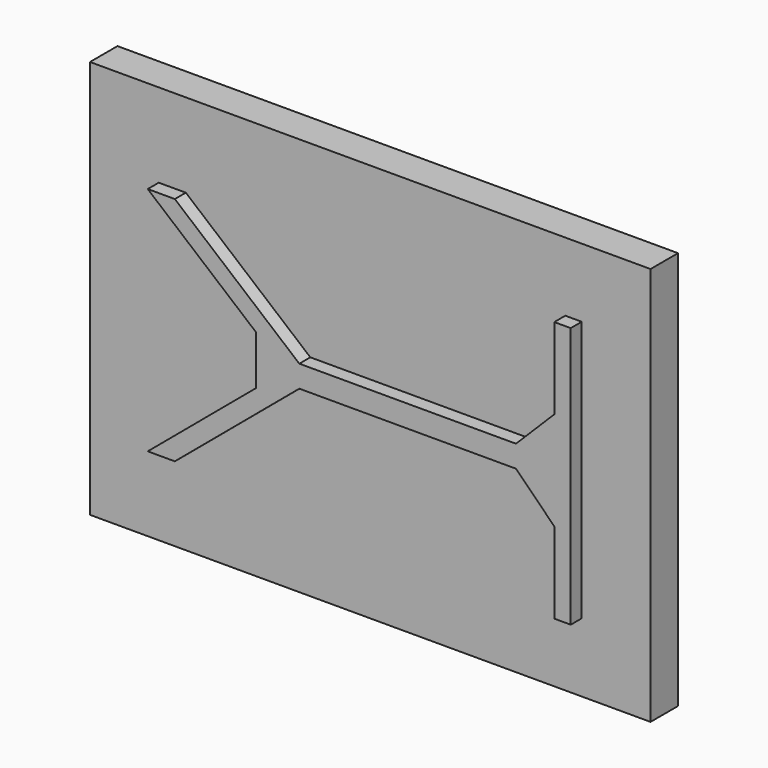
from build123d import *

# Parameters (mm, degrees)
F1_DEPTH = 5.08
F2_W     = 206.974085
F2_H     = 147.206684
F3_DEPTH = 12.7


with BuildPart() as f1:
    # F0 (on Front) → F1 (new body)
    with BuildSketch(Plane.XZ):
        Polygon((78.254195, -10.145704), (-1.745805, -10.145704), (-47.708471, 28.421553), (-57.708471, 28.421553), (-17.704573, -5.145704), (-17.704573, -23.268116), (-57.708471, -56.835373), (-47.708471, -56.835373), (-1.745805, -18.268116), (78.254195, -18.268116), (92.396331, -32.410252), (92.396331, -62.410252), (98.465614, -62.410252), (98.465614, 33.996432), (92.396331, 33.996432), (92.396331, 3.996432), align=None)
    extrude(amount=F1_DEPTH)


with BuildPart() as f3:
    # F2 (on face) → F3 (new body)
    with BuildSketch(Plane(origin=(0, 0, 0), x_dir=(-1, 0, 0), z_dir=(0, 1, 0))):
        with Locations((-20.378571, -14.20691)):
            Rectangle(F2_W, F2_H)
        Polygon((-78.254195, -10.145704), (1.745805, -10.145704), (47.708471, 28.421553), (57.708471, 28.421553), (17.704573, -5.145704), (17.704573, -23.268116), (57.708471, -56.835373), (47.708471, -56.835373), (1.745805, -18.268116), (-78.254195, -18.268116), (-92.396331, -32.410252), (-92.396331, -62.410252), (-98.465614, -62.410252), (-98.465614, 33.996432), (-92.396331, 33.996432), (-92.396331, 3.996432), align=None, mode=Mode.SUBTRACT)
    extrude(amount=F3_DEPTH)


solid = Compound([f1.part, f3.part])
